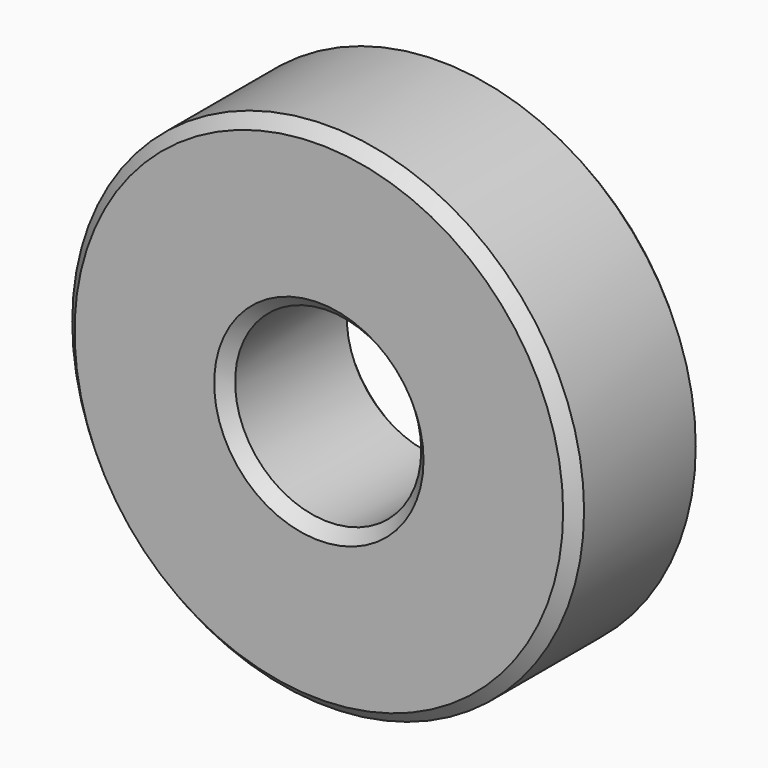
from build123d import *

# Parameters (mm, degrees)
F0_R     = 11
F0_R_2   = 4
F1_DEPTH = 7
F2_SIZE  = 0.5


with BuildPart() as f1:
    # F0 (on Front) → F1 (new body)
    with BuildSketch(Plane.XZ):
        Circle(F0_R)
        Circle(F0_R_2, mode=Mode.SUBTRACT)
    extrude(amount=F1_DEPTH)

    # F2
    f2_edges = [f1.edges().sort_by_distance(p)[0] for p in [
        (11, -3.5, 0),
        (-11, 0, 0),
        (-11, -7, 0),
        (4, -3.5, 0),
        (-4, 0, 0),
        (-4, -7, 0),
    ]]
    chamfer(f2_edges, length=F2_SIZE)


solid = f1.part
